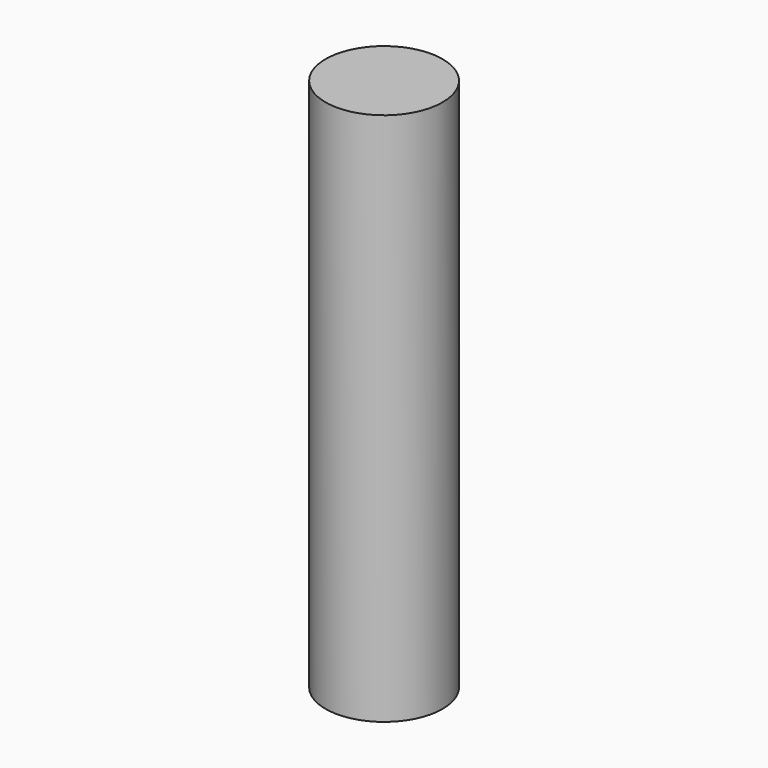
from build123d import *

# Parameters (mm, degrees)
F0_R     = 7.125
F0_R_2   = 6.275
F1_DEPTH = 65
F2_DEPTH = 57


with BuildPart() as f1:
    # F0 (on Top) → F1 (new body)
    with BuildSketch(Plane.XY):
        Circle(F0_R)
        Circle(F0_R_2, mode=Mode.SUBTRACT)
        Circle(F0_R_2)
    extrude(amount=F1_DEPTH)

    # F0 (on Top) → F2 (cut)
    with BuildSketch(Plane.XY):
        Circle(F0_R_2)
    extrude(amount=F2_DEPTH, mode=Mode.SUBTRACT)


solid = f1.part
